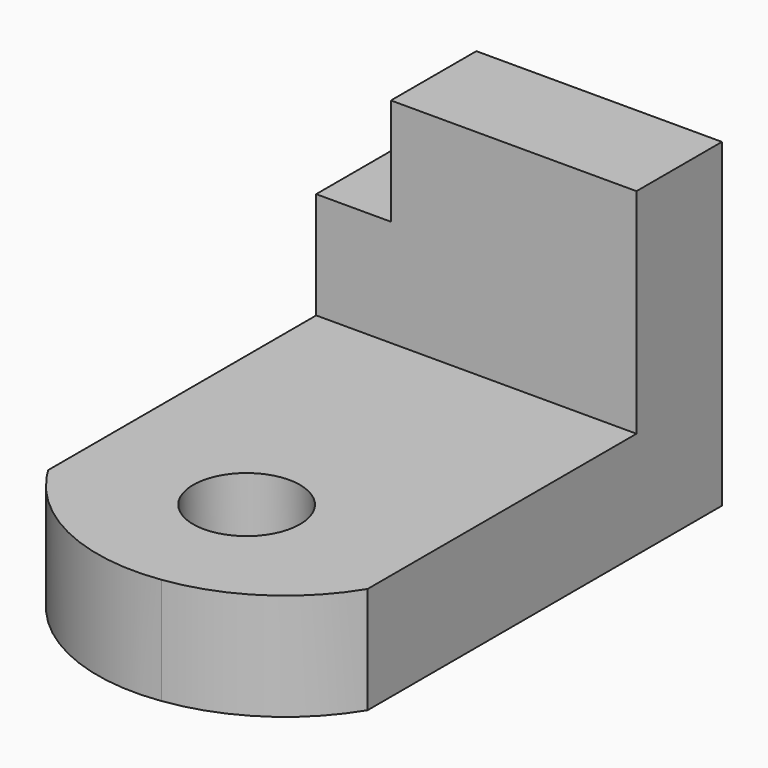
from build123d import *

# Parameters (mm, degrees)
F0_W      = 76.2
F0_H      = 127
F1_DEPTH  = 25.4
F2_W      = 76.2
F2_H      = 25.4
F3_DEPTH  = 25.4
F4_W      = 58.42
F4_H      = 25.4
F5_DEPTH  = 25.4
F7_R      = 12.7
F8_DEPTH  = 25.4
F9_DEPTH  = 25.4
F10_DEPTH = 25.401


with BuildPart() as f1:
    # F0 (on Top) → F1 (new body)
    with BuildSketch(Plane.XY):
        with Locations((0.6532006686, 0.5051653504)):
            Rectangle(F0_W, F0_H)
    extrude(amount=F1_DEPTH)

    # F2 (on face) → F3 (join)
    with BuildSketch(Plane.XY.offset(25.4)):
        with Locations((0.6532006686, 51.3051653504)):
            Rectangle(F2_W, F2_H)
    extrude(amount=F3_DEPTH)

    # F4 (on face) → F5 (join)
    with BuildSketch(Plane.XY.offset(50.8)):
        with Locations((9.5432006686, 51.3051653504)):
            Rectangle(F4_W, F4_H)
    extrude(amount=F5_DEPTH)

    # F7 (on face) → F8 (cut)
    with BuildSketch(Plane.XY.offset(25.4)):
        with Locations((0, -28.8895512581)):
            Circle(F7_R)
    extrude(amount=-F8_DEPTH, mode=Mode.SUBTRACT)

    # F7 (on face) → F9 (cut)
    with BuildSketch(Plane.XY.offset(25.4)):
        with BuildLine():
            ThreePointArc((6.523787157, -62.3899730255), (-16.9822329005, -59.1992066955), (-35.3734492198, -44.2166457992))
            ThreePointArc((-35.3734492198, -44.2166457992), (-36.4439317634, -42.6534421545), (-37.4467993314, -41.0460233688))
            Line((-37.4467993314, -41.0460233688), (-37.4467993314, -62.9948346496))
            Line((-37.4467993314, -62.9948346496), (38.7532006686, -62.9948346496))
            Line((38.7532006686, -62.9948346496), (38.7532006686, -41.3434579968))
            ThreePointArc((38.7532006686, -41.3434579968), (25.0359793217, -55.5380857369), (6.523787157, -62.3899730255))
        make_face()
    extrude(amount=-F9_DEPTH, mode=Mode.SUBTRACT)

    # F7 (on face) → F10 (cut, through all)
    with BuildSketch(Plane.XY.offset(25.4)):
        with BuildLine():
            ThreePointArc((6.523787157, -62.3899730255), (-16.9822329005, -59.1992066955), (-35.3734492198, -44.2166457992))
            ThreePointArc((-35.3734492198, -44.2166457992), (-36.4439317634, -42.6534421545), (-37.4467993314, -41.0460233688))
            Line((-37.4467993314, -41.0460233688), (-37.4467993314, -62.9948346496))
            Line((-37.4467993314, -62.9948346496), (38.7532006686, -62.9948346496))
            Line((38.7532006686, -62.9948346496), (38.7532006686, -41.3434579968))
            ThreePointArc((38.7532006686, -41.3434579968), (25.0359793217, -55.5380857369), (6.523787157, -62.3899730255))
        make_face()
    extrude(amount=-F10_DEPTH, mode=Mode.SUBTRACT)


solid = f1.part
